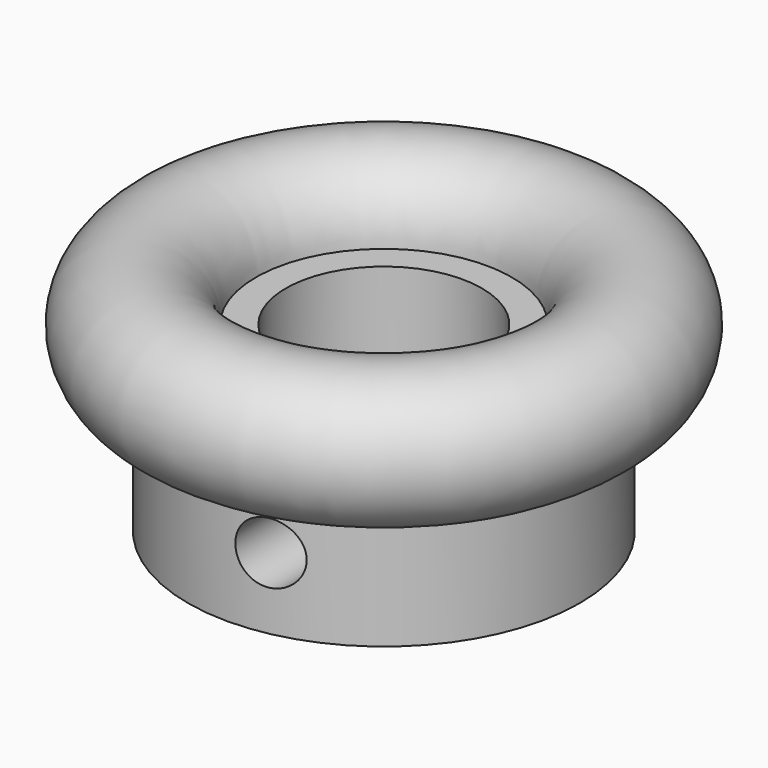
from build123d import *

# Parameters (mm, degrees)
F0_R          = 27
F0_R_2        = 13.50515
F1_DEPTH      = 25
F2_R          = 9.377807
F4_R          = 4.220987
F5_DEPTH      = 30
F5_DEPTH_BACK = 30


with BuildPart() as f1:
    # F0 (on Top) → F1 (new body)
    with BuildSketch(Plane.XY):
        Circle(F0_R)
        Circle(F0_R_2, mode=Mode.SUBTRACT)
    extrude(amount=F1_DEPTH)

    # F2 (on Right) → F3 (revolve)
    with BuildSketch(Plane.YZ):
        with Locations((-27, 25)):
            Circle(F2_R)
    revolve(axis=Axis((0, 0, 0), (0, 0, -1)))

    # F4 (on Front) → F5 (cut, two sides)
    with BuildSketch(Plane.XZ) as f5_sk:
        with Locations((5.346159, 9.811127)):
            Circle(F4_R)
    extrude(amount=F5_DEPTH, mode=Mode.SUBTRACT)
    extrude(f5_sk.sketch, amount=-F5_DEPTH_BACK, mode=Mode.SUBTRACT)


solid = f1.part
